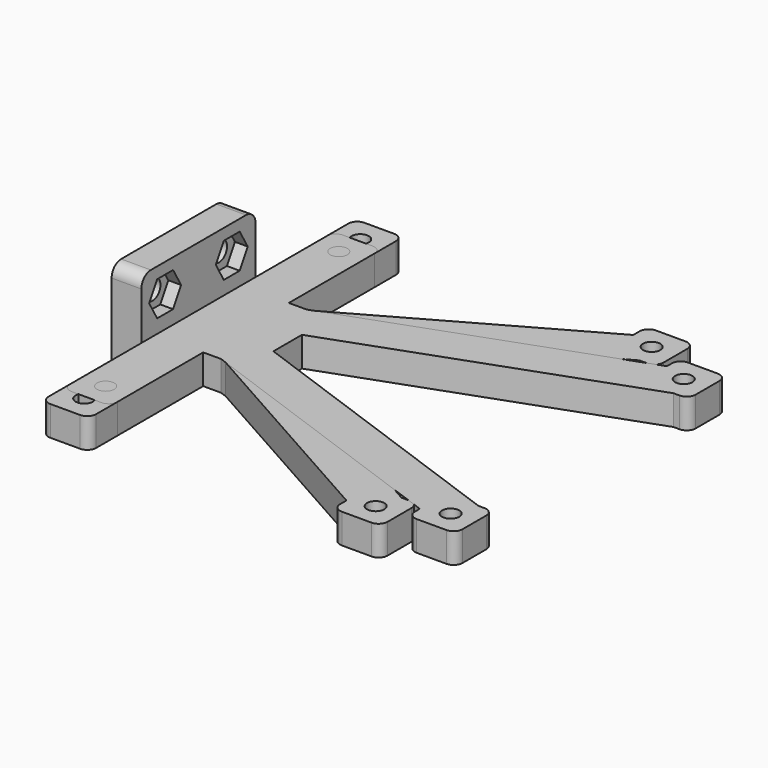
from build123d import *

# Parameters (mm, degrees)
SKETCH_W                      = 24
SKETCH_H                      = 15
PAD_DEPTH                     = 5
SKETCH001_R                   = 1.9
PAD001_DEPTH                  = 4.5
SKETCH002_R                   = 1.7
HOLE_DEPTH                    = 64.708621
POCKET_DEPTH                  = 2.15
CHAMFER_SIZE                  = 0.5
FILLET_R                      = 2
PAD002_DEPTH                  = 5
SKETCH005_R                   = 1.45
HOLE001_DEPTH                 = 137.107018
POCKET001_DEPTH               = 1.75
SKETCH005_MIRRORED002_2_R     = 1.45
HOLE001_MIRRORED002_2_DEPTH   = 137.107018
POCKET001_MIRRORED002_2_DEPTH = 1.75
LINEARPATTERN_COUNT           = 2
LINEARPATTERN_PITCH           = 49
FILLET001_R                   = 1.5
PAD003_DEPTH                  = 5
SKETCH008_R                   = 1.45
HOLE002_DEPTH                 = 149.129415
POCKET002_DEPTH               = 1.75
SKETCH008_MIRRORED004_2_R     = 1.45
HOLE002_MIRRORED004_2_DEPTH   = 149.129415
POCKET002_MIRRORED004_2_DEPTH = 1.75
LINEARPATTERN001_COUNT        = 2
LINEARPATTERN001_PITCH        = 58
FILLET002_R                   = 1.5


with BuildPart() as branch_connector:
    # Sketch → Pad (new body)
    with BuildSketch(Plane.YZ):
        with Locations((0, 7.5)):
            Rectangle(SKETCH_W, SKETCH_H)
    extrude(amount=-PAD_DEPTH)

    # Sketch001 (on Face6 of Pad) → Pad001 (join)
    with BuildSketch(Plane(origin=(-5, 0, 0), x_dir=(0, 1, 0), z_dir=(-1, 0, 0))):
        with Locations((0, -3.2)):
            Circle(SKETCH001_R)
    extrude(amount=PAD001_DEPTH)

    # Sketch002 (on Face5 of Pad001) → Hole (cut, through all)
    with BuildSketch(Plane(origin=(-5, 0, 0), x_dir=(0, 1, 0), z_dir=(-1, 0, 0))):
        with Locations((7, -10.2)):
            Circle(SKETCH002_R)
    hole = extrude(amount=-HOLE_DEPTH, mode=Mode.SUBTRACT)

    # Sketch003 (on Face4 of Hole) → Pocket (cut)
    with BuildSketch(Plane.YZ):
        Polygon((3.651368, 10.2), (5.325684, 7.3), (8.674316, 7.3), (10.348632, 10.2), (8.674316, 13.1), (5.325684, 13.1), align=None)
    pocket = extrude(amount=-POCKET_DEPTH, mode=Mode.SUBTRACT)

    # Mirrored: Hole, Pocket across XZ
    add(hole.mirror(Plane.XZ), mode=Mode.SUBTRACT)
    add(pocket.mirror(Plane.XZ), mode=Mode.SUBTRACT)

    # Chamfer
    chamfer_edges = [branch_connector.edges().sort_by_distance(p)[0] for p in [
        (-9.5, -1.9, 3.2),
    ]]
    chamfer(chamfer_edges, length=CHAMFER_SIZE)

    # Fillet
    fillet_edges = [branch_connector.edges().sort_by_distance(p)[0] for p in [
        (-2.5, 12, 15),
        (-2.5, -12, 15),
    ]]
    fillet(fillet_edges, radius=FILLET_R)


with BuildPart() as branch_connector_1:
    # Body placement: moved
    add(branch_connector.part.moved(Location((-5, 0, 0))))


with BuildPart() as hat_holder_a:
    # Sketch004 → Pad002 (new body)
    with BuildSketch(Plane.XY):
        Polygon((0, 0), (0, 33), (8, 33), (8, 8.781673), (11, 8.781673), (49, 30.14058), (49, 33), (57, 33), (57, 25), (54.14058, 25), (15, 3), (15, 0), align=None)
    pad002 = extrude(amount=PAD002_DEPTH)

    # Sketch005 (on Face14 of Pad002) → Hole001 (cut, through all)
    with BuildSketch(Plane.XY.offset(5)):
        with Locations((4, 29)):
            Circle(SKETCH005_R)
    hole001 = extrude(amount=-HOLE001_DEPTH, mode=Mode.SUBTRACT)

    # Sketch006 (on Face4 of Hole001) → Pocket001 (cut)
    with BuildSketch(Plane(origin=(0, 0, 0), x_dir=(1, 0, 0), z_dir=(0, 0, -1))):
        Polygon((5.515544, -26.375), (2.484456, -26.375), (0.968911, -29), (2.484456, -31.625), (5.515544, -31.625), (7.031089, -29), align=None)
    pocket001 = extrude(amount=-POCKET001_DEPTH, mode=Mode.SUBTRACT)

    # Mirrored001: Pad002 across XZ
    add(pad002.mirror(Plane.XZ))

    # Sketch005 Mirrored002 2 → Hole001 Mirrored002 2 (cut, through all)
    with BuildSketch(Plane(origin=(0, 0, 5), x_dir=(1, 0, 0), z_dir=(0, 0, -1))):
        with Locations((4, 29)):
            Circle(SKETCH005_MIRRORED002_2_R)
    hole001_mirrored002_2 = extrude(amount=HOLE001_MIRRORED002_2_DEPTH, mode=Mode.SUBTRACT)

    # Sketch006 Mirrored002 2 → Pocket001 Mirrored002 2 (cut)
    with BuildSketch(Plane.XY):
        Polygon((5.515544, -26.375), (2.484456, -26.375), (0.968911, -29), (2.484456, -31.625), (5.515544, -31.625), (7.031089, -29), align=None)
    pocket001_mirrored002_2 = extrude(amount=POCKET001_MIRRORED002_2_DEPTH, mode=Mode.SUBTRACT)

    # LinearPattern: Hole001, Pocket001, Hole001 Mirrored002 2, Pocket001 Mirrored002 2 ×2
    with Locations(*[(i * LINEARPATTERN_PITCH, 0, 0) for i in range(1, LINEARPATTERN_COUNT)]):
        add(hole001, mode=Mode.SUBTRACT)
        add(pocket001, mode=Mode.SUBTRACT)
        add(hole001_mirrored002_2, mode=Mode.SUBTRACT)
        add(pocket001_mirrored002_2, mode=Mode.SUBTRACT)

    # Fillet001
    fillet001_edges = [hat_holder_a.edges().sort_by_distance(p)[0] for p in [
        (57, 33, 2.5),
        (57, -33, 2.5),
        (57, -25, 2.5),
        (49, -33, 2.5),
        (57, 25, 2.5),
        (49, 33, 2.5),
        (8, 33, 2.5),
        (0, 33, 2.5),
        (0, -33, 2.5),
        (8, -33, 2.5),
    ]]
    fillet(fillet001_edges, radius=FILLET001_R)


with BuildPart() as hat_holder_a_1:
    # Body001 placement: moved
    add(hat_holder_a.part.moved(Location((-5, 0, 0))))


with BuildPart() as hat_holder_b:
    # Sketch007 → Pad003 (new body)
    with BuildSketch(Plane.XY):
        Polygon((0, 0), (0, 28.5), (8, 28.5), (8, 8.998057), (11, 8.998057), (58, 25.968012), (58, 28.5), (66, 28.5), (66, 20.5), (63.468012, 20.5), (15, 3), (15, 0), align=None)
    pad003 = extrude(amount=PAD003_DEPTH)

    # Sketch008 (on Face14 of Pad003) → Hole002 (cut, through all)
    with BuildSketch(Plane.XY.offset(5)):
        with Locations((4, 24.5)):
            Circle(SKETCH008_R)
    hole002 = extrude(amount=-HOLE002_DEPTH, mode=Mode.SUBTRACT)

    # Sketch009 (on Face4 of Hole002) → Pocket002 (cut)
    with BuildSketch(Plane(origin=(0, 0, 0), x_dir=(1, 0, 0), z_dir=(0, 0, -1))):
        Polygon((5.515544, -21.875), (2.484456, -21.875), (0.968911, -24.5), (2.484456, -27.125), (5.515544, -27.125), (7.031089, -24.5), align=None)
    pocket002 = extrude(amount=-POCKET002_DEPTH, mode=Mode.SUBTRACT)

    # Mirrored003: Pad003 across XZ
    add(pad003.mirror(Plane.XZ))

    # Sketch008 Mirrored004 2 → Hole002 Mirrored004 2 (cut, through all)
    with BuildSketch(Plane(origin=(0, 0, 5), x_dir=(1, 0, 0), z_dir=(0, 0, -1))):
        with Locations((4, 24.5)):
            Circle(SKETCH008_MIRRORED004_2_R)
    hole002_mirrored004_2 = extrude(amount=HOLE002_MIRRORED004_2_DEPTH, mode=Mode.SUBTRACT)

    # Sketch009 Mirrored004 2 → Pocket002 Mirrored004 2 (cut)
    with BuildSketch(Plane.XY):
        Polygon((5.515544, -21.875), (2.484456, -21.875), (0.968911, -24.5), (2.484456, -27.125), (5.515544, -27.125), (7.031089, -24.5), align=None)
    pocket002_mirrored004_2 = extrude(amount=POCKET002_MIRRORED004_2_DEPTH, mode=Mode.SUBTRACT)

    # LinearPattern001: Hole002, Pocket002, Hole002 Mirrored004 2, Pocket002 Mirrored004 2 ×2
    with Locations(*[(i * LINEARPATTERN001_PITCH, 0, 0) for i in range(1, LINEARPATTERN001_COUNT)]):
        add(hole002, mode=Mode.SUBTRACT)
        add(pocket002, mode=Mode.SUBTRACT)
        add(hole002_mirrored004_2, mode=Mode.SUBTRACT)
        add(pocket002_mirrored004_2, mode=Mode.SUBTRACT)

    # Fillet002
    fillet002_edges = [hat_holder_b.edges().sort_by_distance(p)[0] for p in [
        (66, 28.5, 2.5),
        (66, -28.5, 2.5),
        (66, -20.5, 2.5),
        (58, -28.5, 2.5),
        (66, 20.5, 2.5),
        (58, 28.5, 2.5),
        (8, 28.5, 2.5),
        (0, 28.5, 2.5),
        (0, -28.5, 2.5),
        (8, -28.5, 2.5),
    ]]
    fillet(fillet002_edges, radius=FILLET002_R)


with BuildPart() as hat_holder_b_1:
    # Body002 placement: moved
    add(hat_holder_b.part.moved(Location((-5, 0, 0))))


solid = Compound([branch_connector_1.part, hat_holder_a_1.part, hat_holder_b_1.part])
